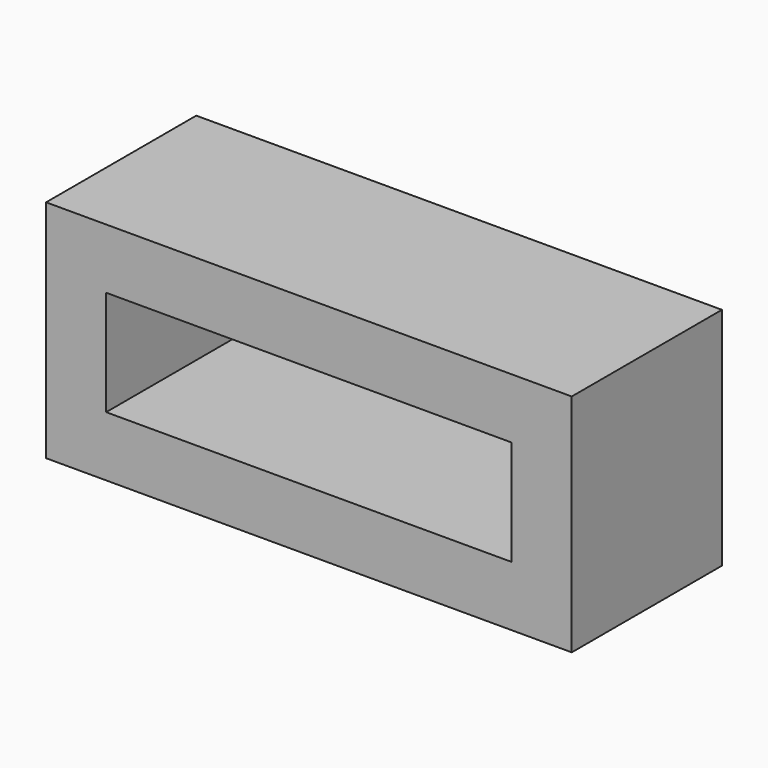
from build123d import *

# Parameters (mm, degrees)
F0_W        = 1400
F0_H        = 600
F0_W_2      = 1080
F0_H_2      = 280
F1_DEPTH    = 420
F1_FACE_W   = 1400
F1_FACE_H   = 600
F1_FACE_W_2 = 1080
F1_FACE_H_2 = 280
F2_DEPTH    = 80


with BuildPart() as f1:
    # F0 (on Front) → F1 (new body)
    with BuildSketch(Plane.XZ):
        with Locations((700, 300)):
            Rectangle(F0_W, F0_H)
        with Locations((700, 300)):
            Rectangle(F0_W_2, F0_H_2, mode=Mode.SUBTRACT)
    extrude(amount=F1_DEPTH)

    # F1_face (on face) → F2 (join)
    with BuildSketch(Plane(origin=(700, -420, 300), x_dir=(1, 0, 0), z_dir=(0, -1, 0))):
        Rectangle(F1_FACE_W, F1_FACE_H)
        Rectangle(F1_FACE_W_2, F1_FACE_H_2, mode=Mode.SUBTRACT)
    extrude(amount=F2_DEPTH)


solid = f1.part
